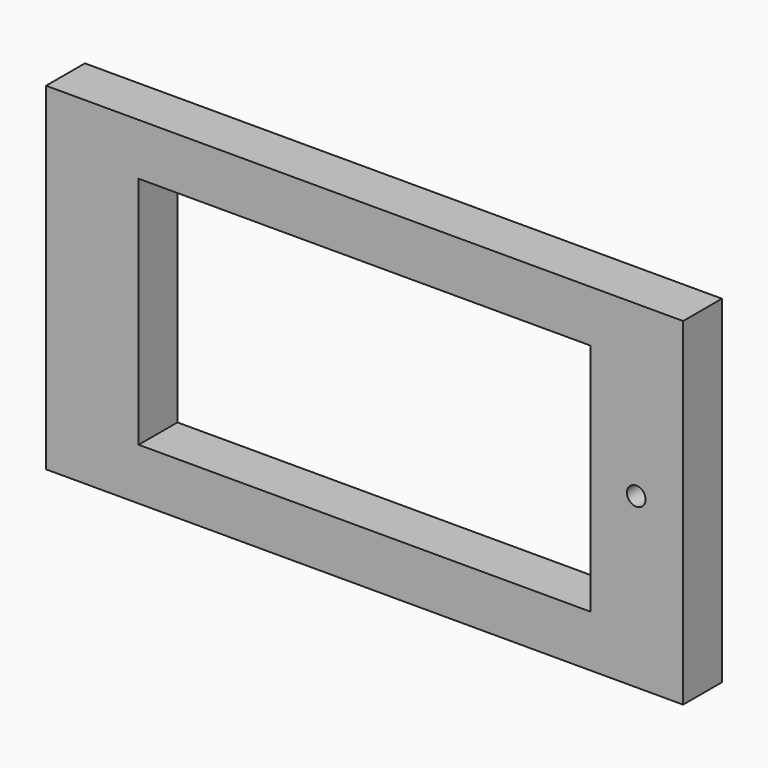
from build123d import *

# Parameters (mm, degrees)
SKETCH_W        = 34.16
SKETCH_H        = 18.11
PAD_DEPTH       = 2.6
SKETCH002_W     = 24.23
SKETCH002_H     = 12.56
POCKET_DEPTH    = 2.6
SKETCH003_R     = 0.5
SKETCH003_W     = 2.01
SKETCH003_H     = 3.5
POCKET001_DEPTH = 5


with BuildPart() as part:
    # Sketch → Pad (new body)
    with BuildSketch(Plane.XZ):
        with Locations((17.08, 9.055)):
            Rectangle(SKETCH_W, SKETCH_H)
    extrude(amount=PAD_DEPTH)

    # Sketch002 (on Face6 of Pad) → Pocket (cut)
    with BuildSketch(Plane.XZ.offset(2.6)):
        with Locations((17.08, 9.055)):
            Rectangle(SKETCH002_W, SKETCH002_H)
    extrude(amount=-POCKET_DEPTH, mode=Mode.SUBTRACT)

    # Sketch003 (on Face4 of Pocket) → Pocket001 (cut)
    with BuildSketch(Plane(origin=(0, 0, 0), x_dir=(1, 0, 0), z_dir=(0, 1, 0))):
        with Locations((31.645, -9.028)):
            Circle(SKETCH003_R)
        with Locations((27.953742, -8.544061)):
            Rectangle(SKETCH003_W, SKETCH003_H)
    extrude(amount=-POCKET001_DEPTH, mode=Mode.SUBTRACT)


solid = part.part
